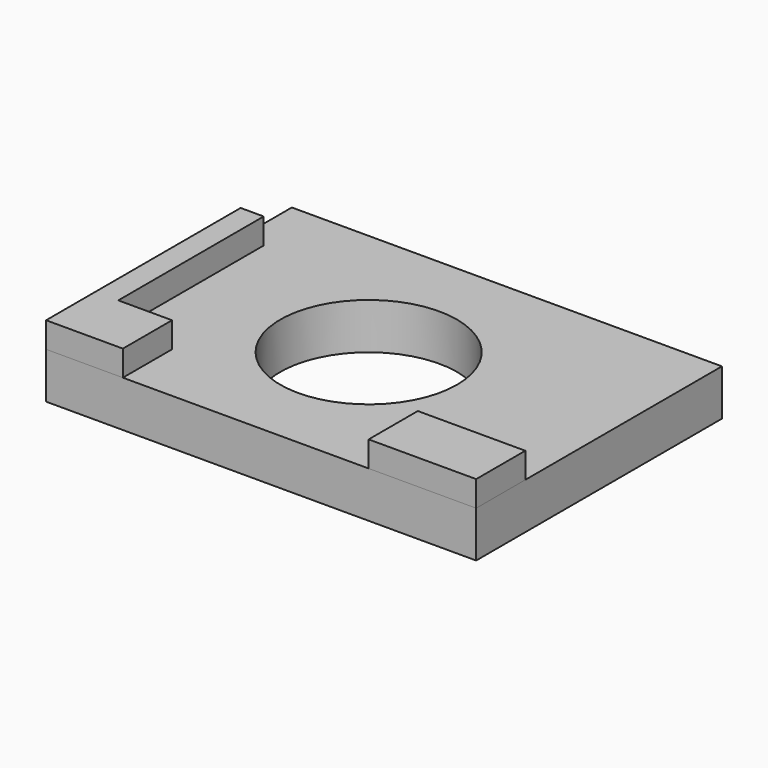
from build123d import *

# Parameters (mm, degrees)
F0_W     = 9
F0_H     = 71
F0_H_2   = 24
F0_W_2   = 21
F0_W_3   = 42
F1_DEPTH = 28
F0_R     = 48
F2_DEPTH = 18
F0_R_2   = 34.5
F3_DEPTH = 18


with BuildPart() as f1:
    # F0 (on Top) → F1 (new body)
    with BuildSketch(Plane.XY):
        with Locations((-77.082793, 9.713417)):
            Rectangle(F0_W, F0_H)
        with Locations((-77.082793, -37.786583)):
            Rectangle(F0_W, F0_H_2)
        with Locations((-62.082793, -37.786583)):
            Rectangle(F0_W_2, F0_H_2)
        with Locations((65.417207, -37.786583)):
            Rectangle(F0_W_3, F0_H_2)
    extrude(amount=F1_DEPTH)


with BuildPart() as f2:
    # F0 (on Top) → F2 (new body)
    with BuildSketch(Plane.XY):
        Polygon((86.417207, 70.213417), (-81.582793, 70.213417), (-81.582793, 45.213417), (-72.582793, 45.213417), (-72.582793, -25.786583), (-51.582793, -25.786583), (-51.582793, -49.786583), (44.417207, -49.786583), (44.417207, -25.786583), (86.417207, -25.786583), align=None)
        with Locations((-3.582793, 10.213417)):
            Circle(F0_R, mode=Mode.SUBTRACT)
        with Locations((-77.082793, 9.713417)):
            Rectangle(F0_W, F0_H)
        with Locations((65.417207, -37.786583)):
            Rectangle(F0_W_3, F0_H_2)
        with Locations((-77.082793, -37.786583)):
            Rectangle(F0_W, F0_H_2)
        with Locations((-62.082793, -37.786583)):
            Rectangle(F0_W_2, F0_H_2)
        Polygon((86.417207, 70.213417), (-81.582793, 70.213417), (-81.582793, 45.213417), (-72.582793, 45.213417), (-72.582793, -25.786583), (-51.582793, -25.786583), (-51.582793, -49.786583), (44.417207, -49.786583), (44.417207, -25.786583), (86.417207, -25.786583), align=None)
        with Locations((-3.582793, 10.213417)):
            Circle(F0_R, mode=Mode.SUBTRACT)
    extrude(amount=F2_DEPTH)

    # F0 (on Top) → F3 (join)
    with BuildSketch(Plane.XY):
        with Locations((-3.582793, 10.213417)):
            Circle(F0_R)
        with Locations((-3.582793, 10.213417)):
            Circle(F0_R_2, mode=Mode.SUBTRACT)
    extrude(amount=F3_DEPTH)


solid = Compound([f1.part, f2.part])
